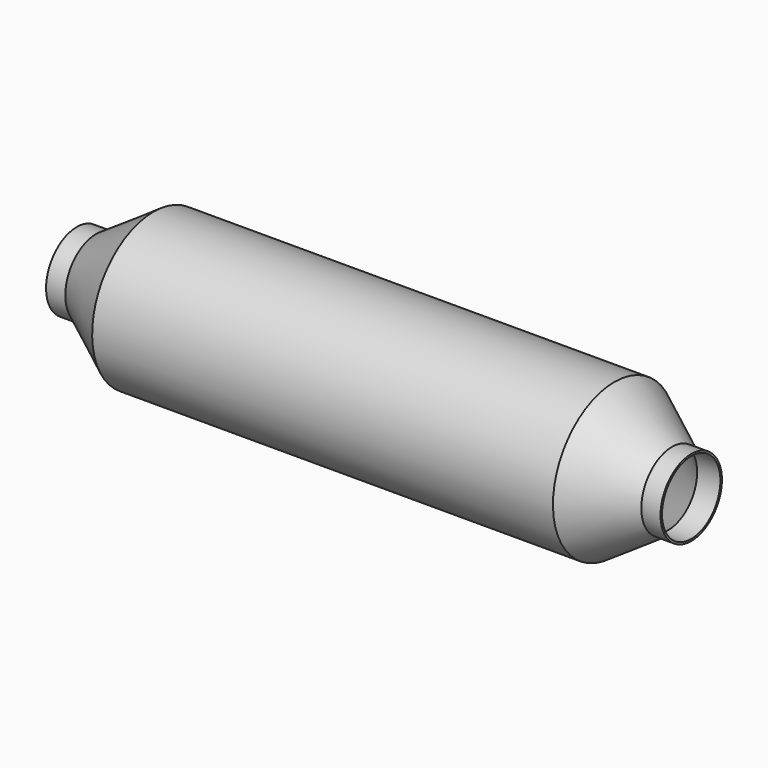
from build123d import *

# Parameters (mm, degrees)
F2_T = -2.54
F4_D = 48.26


with BuildPart() as f1:
    # F0 (on Front) → F1 (revolve)
    with BuildSketch(Plane.XZ):
        Polygon((-115.680311, 25.4), (-115.680311, 0), (290.719689, 0), (290.719689, 25.4), (278.019689, 25.4), (239.919689, 50.8), (-64.880311, 50.8), (-102.980311, 25.4), align=None)
    revolve(axis=Axis((87.519689, 0, 0), (-1, 0, 0)))

    # F2
    f2_openings = [f1.faces().sort_by_distance(p)[0] for p in [
        (-115.680311, 0, 0),
    ]]
    offset(amount=F2_T, openings=f2_openings)

    # F4 (through all)
    with Locations(Plane.YZ.offset(290.719689)):
        with Locations((0, 0)):
            Hole(F4_D / 2)


solid = f1.part
